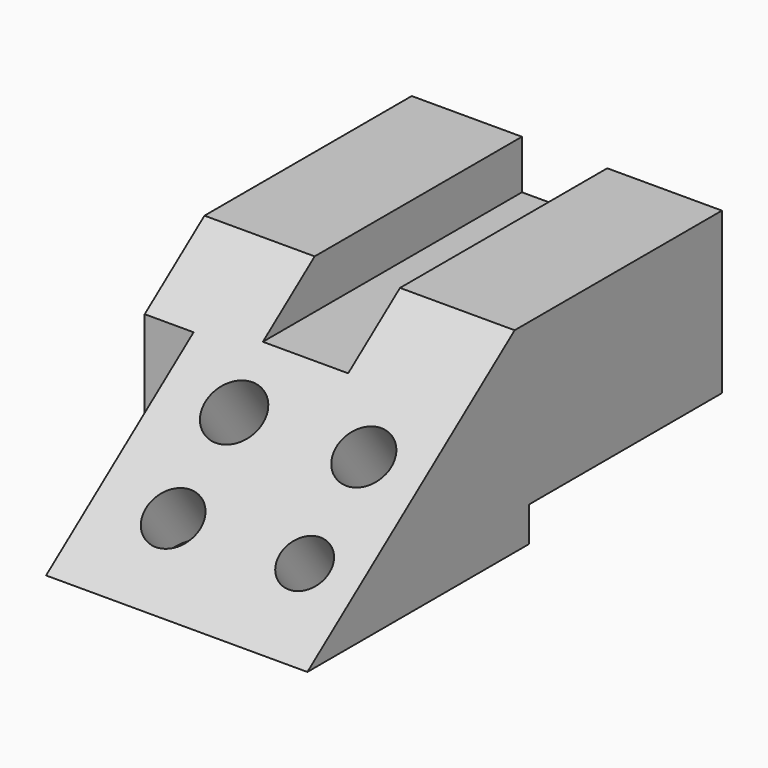
from build123d import *

# Parameters (mm, degrees)
F0_W      = 80.587271601
F0_H      = 134.6200034022
F1_DEPTH  = 50.8
F3_W      = 22.1672728658
F3_H      = 134.6200034022
F4_DEPTH  = 12.7
F5_DEPTH  = 80.588271601
F6_R      = 7.4930236149
F7_DEPTH  = 81.0970184176
F8_R      = 7.092028965
F9_DEPTH  = 81.0970184176
F10_R     = 7.1305147712
F11_DEPTH = 81.0970184176
F12_R     = 6.445813808
F13_DEPTH = 81.0970184176
F15_DEPTH = 12.7
F16_W     = 62.6918235794
F16_H     = 9.051089175
F17_DEPTH = 80.588271601


with BuildPart() as f1:
    # F0 (on Top) → F1 (new body)
    with BuildSketch(Plane.XY):
        with Locations((0.5772728473, 0.2309121192)):
            Rectangle(F0_W, F0_H)
    extrude(amount=F1_DEPTH)

    # F3 (on face) → F4 (cut)
    with BuildSketch(Plane.XY.offset(50.8)):
        with Locations((9.313e-07, 0.2309121192)):
            Rectangle(F3_W, F3_H)
    extrude(amount=-F4_DEPTH, mode=Mode.SUBTRACT)

    # F2 (on face) → F5 (cut, through all)
    with BuildSketch(Plane(origin=(-39.7163629532, 0, 0), x_dir=(0, -1, 0), z_dir=(-1, 0, 0))):
        Polygon((67.079089582, 50.8), (-0.2309121192, 50.8), (67.079089582, 0), align=None)
    extrude(amount=-F5_DEPTH, mode=Mode.SUBTRACT)

    # F6 (on face) → F7 (cut, through all)
    with BuildSketch(Plane(origin=(0, -24.3426037367, 32.2539507662), x_dir=(1, 0, 0), z_dir=(0, -0.6024068962, 0.7981891577))):
        with Locations((-8.0818189308, -6.697748322)):
            Circle(F6_R)
    extrude(amount=-F7_DEPTH, mode=Mode.SUBTRACT)

    # F8 (on face) → F9 (cut, through all)
    with BuildSketch(Plane(origin=(0, -24.3426037367, 32.2539507662), x_dir=(1, 0, 0), z_dir=(0, -0.6024068962, 0.7981891577))):
        with Locations((-7.3890909553, -32.5778611004)):
            Circle(F8_R)
    extrude(amount=-F9_DEPTH, mode=Mode.SUBTRACT)

    # F10 (on face) → F11 (cut, through all)
    with BuildSketch(Plane(origin=(0, -24.3426037367, 32.2539507662), x_dir=(1, 0, 0), z_dir=(0, -0.6024068962, 0.7981891577))):
        with Locations((25.1690894365, -5.9982873499)):
            Circle(F10_R)
    extrude(amount=-F11_DEPTH, mode=Mode.SUBTRACT)

    # F12 (on face) → F13 (cut, through all)
    with BuildSketch(Plane(origin=(0, -24.3426037367, 32.2539507662), x_dir=(1, 0, 0), z_dir=(0, -0.6024068962, 0.7981891577))):
        with Locations((26.3236388564, -31.878400594)):
            Circle(F12_R)
    extrude(amount=-F13_DEPTH, mode=Mode.SUBTRACT)

    # F14 (on face) → F15 (cut)
    with BuildSketch(Plane(origin=(-39.7163629532, 0, 0), x_dir=(0, -1, 0), z_dir=(-1, 0, 0))):
        Polygon((67.079089582, 0), (19.1769771332, 36.1525367835), (19.1769771332, 0), align=None)
    extrude(amount=-F15_DEPTH, mode=Mode.SUBTRACT)

    # F16 (on face) → F17 (cut, through all)
    with BuildSketch(Plane(origin=(-39.7163629532, 0, 0), x_dir=(0, -1, 0), z_dir=(-1, 0, 0))):
        with Locations((-36.1950020306, 4.5255445875)):
            Rectangle(F16_W, F16_H)
    extrude(amount=-F17_DEPTH, mode=Mode.SUBTRACT)


solid = f1.part
